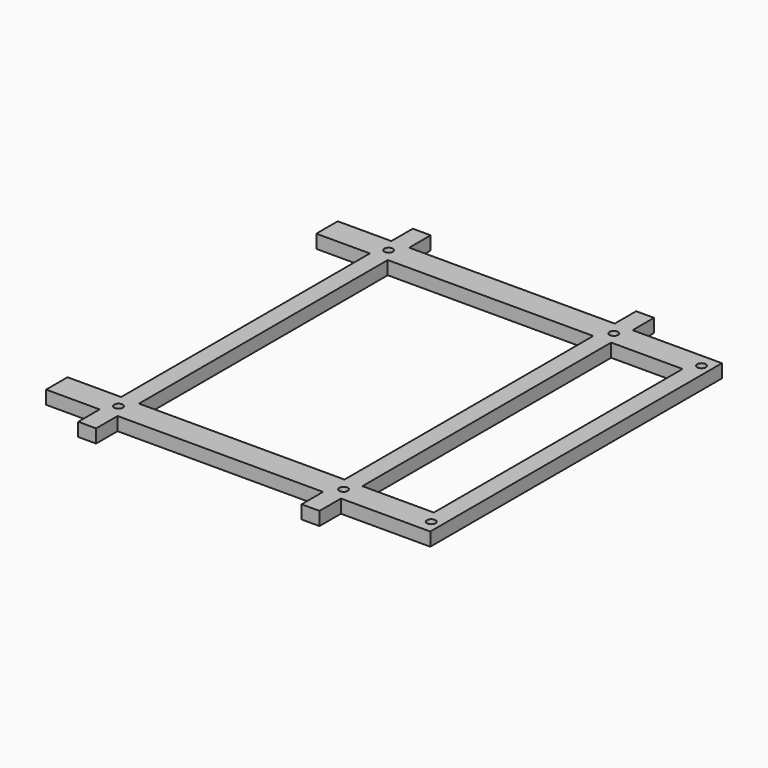
from build123d import *

# Parameters (mm, degrees)
F1_R     = 1.6
F1_W     = 76.668
F1_H     = 116
F1_W_2   = 26.667
F2_DEPTH = 5


with BuildPart() as f2:
    # F1 (on Top) → F2 (new body)
    with BuildSketch(Plane.XY):
        Polygon((-3.001, 187.310685), (3.666, 187.310685), (3.666, 197.310685), (80.334, 197.310685), (80.334, 187.310685), (87.001, 187.310685), (87.001, 197.310685), (113.668, 197.310685), (120.335, 197.310685), (120.335, 333.310685), (113.668, 333.310685), (87.001, 333.310685), (87.001, 343.310685), (80.334, 343.310685), (80.334, 333.310685), (3.666, 333.310685), (3.666, 343.310685), (-3.001, 343.310685), (-3.001, 333.310685), (-23.001, 333.310685), (-23.001, 323.310685), (-3.001, 323.310685), (-3.001, 207.310685), (-23.001, 207.310685), (-23.001, 197.310685), (-3.001, 197.310685), align=None)
        with Locations((0, 202.310685)):
            Circle(F1_R, mode=Mode.SUBTRACT)
        with Locations((42, 265.310685)):
            Rectangle(F1_W, F1_H, mode=Mode.SUBTRACT)
        with Locations((84, 202.310685)):
            Circle(F1_R, mode=Mode.SUBTRACT)
        with Locations((116.69, 202.310685)):
            Circle(F1_R, mode=Mode.SUBTRACT)
        with Locations((100.3345, 265.310685)):
            Rectangle(F1_W_2, F1_H, mode=Mode.SUBTRACT)
        with Locations((0, 328.310685)):
            Circle(F1_R, mode=Mode.SUBTRACT)
        with Locations((84, 328.310685)):
            Circle(F1_R, mode=Mode.SUBTRACT)
        with Locations((116.69, 328.310685)):
            Circle(F1_R, mode=Mode.SUBTRACT)
    extrude(amount=F2_DEPTH)


solid = f2.part
